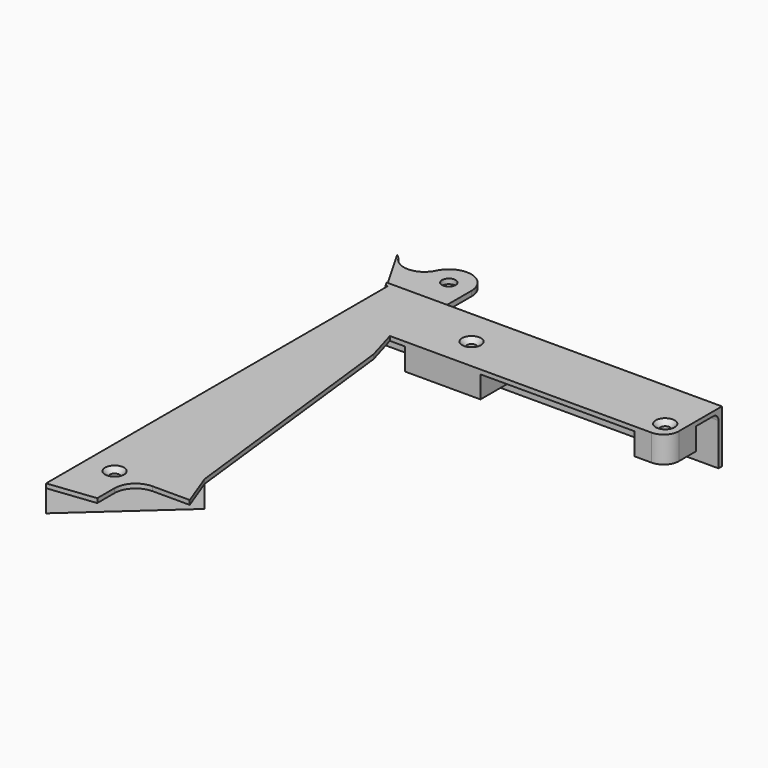
from build123d import *

# Parameters (mm, degrees)
SKETCH007_W          = 124
SKETCH007_H          = 24.5
SKETCH007_R          = 2.5
PAD004_DEPTH         = 2
SKETCH006_R          = 3.175
PAD005_DEPTH         = 4.1125
PAD006_DEPTH         = 12.25
POCKET001_DEPTH      = 373.382623
POCKET001_DEPTH_BACK = 485.092667
PAD007_DEPTH         = 2
SKETCH011_W          = 35
SKETCH011_H          = 30
SKETCH011_W_2        = 15
SKETCH011_H_2        = 17
PAD008_DEPTH         = 12.25
HOLE_D               = 4.5
HOLE_CSINK_D         = 8.8
HOLE_CSINK_ANGLE     = 90
FILLET002_R          = 3
FILLET003_R          = 2
FILLET004_R          = 7
SKETCH017_W          = 3
SKETCH017_H          = 16.275
POCKET004_DEPTH      = 14.161
POCKET004_DEPTH_BACK = 213.001


with BuildPart() as part:
    # Sketch007 → Pad004 (new body)
    with BuildSketch(Plane.XZ.offset(13)):
        with Locations((78, 0)):
            Rectangle(SKETCH007_W, SKETCH007_H)
        with Locations((30, 0)):
            Circle(SKETCH007_R, mode=Mode.SUBTRACT)
        with BuildLine():
            ThreePointArc((90.8685, 2.143), (88.7255, 0), (90.8685, -2.143))
            Line((90.8685, -2.143), (98.806, -2.143))
            ThreePointArc((98.806, -2.143), (100.949, 0), (98.806, 2.143))
            Line((98.806, 2.143), (90.8685, 2.143))
        make_face(mode=Mode.SUBTRACT)
    extrude(amount=PAD004_DEPTH)

    # Sketch006 → Pad005 (join)
    with BuildSketch(Plane.XY.offset(12.25)):
        with BuildLine():
            Line((16, -13), (10.43, -13))
            Line((10.43, -13), (10.43, 3.73))
            ThreePointArc((10.43, 3.73), (2.257465, 13.912767), (-9.45279, 8.137908))
            ThreePointArc((-26.289956, 7.402782), (-17.64833, 2.661824), (-9.45279, 8.137908))
            Line((-26.289956, 7.402782), (-13.355703, -15))
            Line((-13.355703, -15), (16, -15))
            Line((16, -15), (16, -13))
        make_face()
        with Locations((0, 3.73)):
            Circle(SKETCH006_R, mode=Mode.SUBTRACT)
    pad005 = extrude(amount=-PAD005_DEPTH)

    # Mirrored001: Pad005 across XY
    add(pad005.mirror(Plane.XY))

    # Sketch008 → Pad006 (join, symmetric)
    with BuildSketch(Plane.XY):
        Polygon((-26.289956, 7.402782), (-28.289956, 9.134833), (-14.355703, -15), (-13.355703, -15), align=None)
    extrude(amount=PAD006_DEPTH, both=True)

    # Sketch009 → Pocket001 (cut, two sides)
    with BuildSketch(Plane.YZ) as pocket001_sk:
        with BuildLine():
            ThreePointArc((-13, 12.25), (-11.749286, 10.934524), (-10, 10.45))
            Line((-10, 10.45), (14.16, 10.45))
            Line((14.16, 12.25), (14.16, 10.45))
            Line((14.16, 12.25), (-13, 12.25))
        make_face()
    pocket001 = extrude(amount=-POCKET001_DEPTH, mode=Mode.SUBTRACT) + extrude(pocket001_sk.sketch, amount=POCKET001_DEPTH_BACK, mode=Mode.SUBTRACT)

    # Mirrored002: Pocket001 across Sketch009 H_Axis
    add(pocket001.mirror(Plane.XY), mode=Mode.SUBTRACT)

    # Sketch010 → Pad007 (join)
    with BuildSketch(Plane.XY.offset(12.25)):
        with BuildLine():
            Line((-13.355703, -15), (140, -15))
            Line((140, -15), (140, -45))
            Line((11.644297, -45), (140, -45))
            Line((16.00778, -59.929218), (11.644297, -45))
            Line((29.314371, -174.42131), (16.00778, -59.929218))
            Line((35.419102, -190.709129), (29.314371, -174.42131))
            Line((18.174297, -190.709129), (35.419102, -190.709129))
            ThreePointArc((18.174297, -190.709129), (11.242593, -193.580335), (8.371387, -200.512039))
            Line((8.371387, -210.497159), (8.371387, -200.512039))
            Line((-13.355703, -213), (8.371387, -210.497159))
            Line((-13.355703, -213), (-13.355703, -15))
        make_face()
    extrude(amount=-PAD007_DEPTH)

    # Sketch011 (on Face7 of Pad007) → Pad008 (join)
    with BuildSketch(Plane(origin=(0, 0, 12.25), x_dir=(-1, 0, 0), z_dir=(0, 0, 1))):
        with Locations((-36.144297, 30)):
            Rectangle(SKETCH011_W, SKETCH011_H)
        with Locations((-132.5, 36.5)):
            Rectangle(SKETCH011_W_2, SKETCH011_H_2)
        Polygon((13.355703, 174.42131), (-29.314371, 174.42131), (13.355703, 213), align=None)
    extrude(amount=-PAD008_DEPTH)

    # Hole (through all)
    with Locations(Plane.XY.offset(12.25)):
        with Locations((0, -190), (37.5, -30), (132.5, -36.5)):
            CounterSinkHole(HOLE_D / 2, HOLE_CSINK_D / 2, counter_sink_angle=HOLE_CSINK_ANGLE)

    # Fillet002
    fillet002_edges = [part.edges().sort_by_distance(p)[0] for p in [
        (96.822148, -15, 10.25),
    ]]
    fillet(fillet002_edges, radius=FILLET002_R)

    # Fillet003
    fillet003_edges = [part.edges().sort_by_distance(p)[0] for p in [
        (2.644297, -15, 10.25),
    ]]
    fillet(fillet003_edges, radius=FILLET003_R)

    # Fillet004
    fillet004_edges = [part.edges().sort_by_distance(p)[0] for p in [
        (125, -28, 5.125),
        (140, -45, 5.125),
    ]]
    fillet(fillet004_edges, radius=FILLET004_R)

    # Sketch017 → Pocket004 (cut, two sides)
    with BuildSketch(Plane.XZ) as pocket004_sk:
        with Locations((-14.855703, 0)):
            Rectangle(SKETCH017_W, SKETCH017_H)
    extrude(amount=-POCKET004_DEPTH, mode=Mode.SUBTRACT)
    extrude(pocket004_sk.sketch, amount=POCKET004_DEPTH_BACK, mode=Mode.SUBTRACT)


solid = part.part
